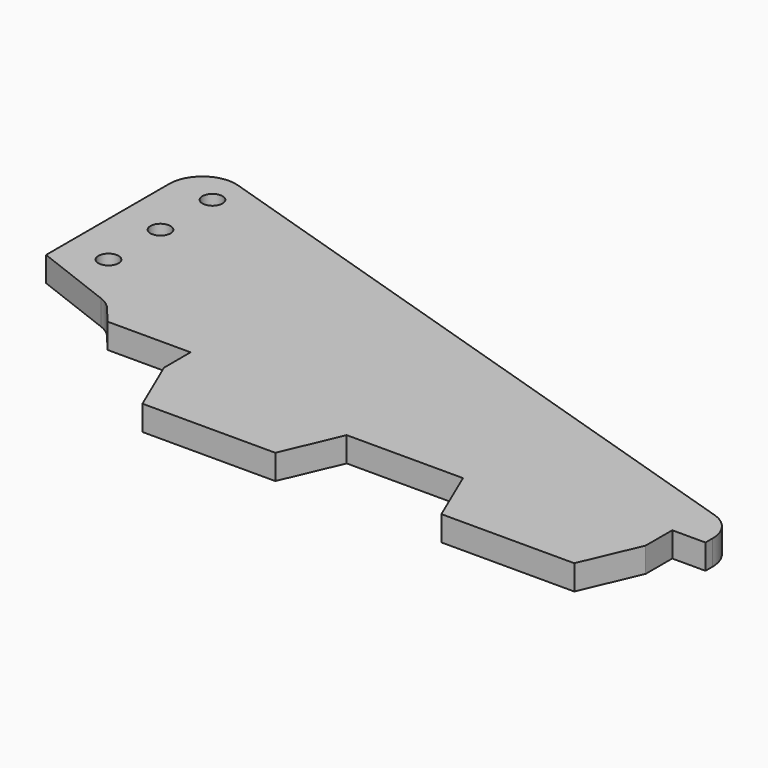
from build123d import *

# Parameters (mm, degrees)
F0_R     = 0.605482
F1_DEPTH = 1.5


with BuildPart() as f1:
    # F0 (on Top) → F1 (new body)
    with BuildSketch(Plane.XY):
        with BuildLine():
            Line((-8, 0), (0, 0))
            Line((0, 0), (1.5, 3.5))
            Line((1.5, 3.5), (1.5, 5.5))
            Line((1.5, 5.5), (3.5, 5.5))
            Line((3.5, 5.5), (3.5, 6.036819))
            ThreePointArc((3.5, 6.036819), (3.11415, 7.217716), (2.105482, 7.942965))
            Line((2.105482, 7.942965), (-36.394518, 20.172376))
            ThreePointArc((-36.394518, 20.172376), (-38.180897, 19.880381), (-39, 18.266231))
            Line((-39, 18.266231), (-39, 9))
            Line((-39, 9), (-34.201946, 7.152645))
            ThreePointArc((-34.201946, 7.152645), (-33.75346, 6.910359), (-33.38079, 6.562568))
            Line((-33.38079, 6.562568), (-32.5, 5.5))
            Line((-32.5, 5.5), (-27.5, 5.5))
            Line((-27.5, 5.5), (-27.5, 3.5))
            Line((-27.5, 3.5), (-26, 0))
            Line((-26, 0), (-18, 0))
            Line((-18, 0), (-16.5, 3.5))
            Line((-16.5, 3.5), (-9.5, 3.5))
            Line((-9.5, 3.5), (-8, 0))
        make_face()
        with Locations((-36.415211, 10.466258)):
            Circle(F0_R, mode=Mode.SUBTRACT)
        with Locations((-36.404865, 14.366244)):
            Circle(F0_R, mode=Mode.SUBTRACT)
        with Locations((-36.394518, 18.266231)):
            Circle(F0_R, mode=Mode.SUBTRACT)
    extrude(amount=F1_DEPTH)


solid = f1.part
